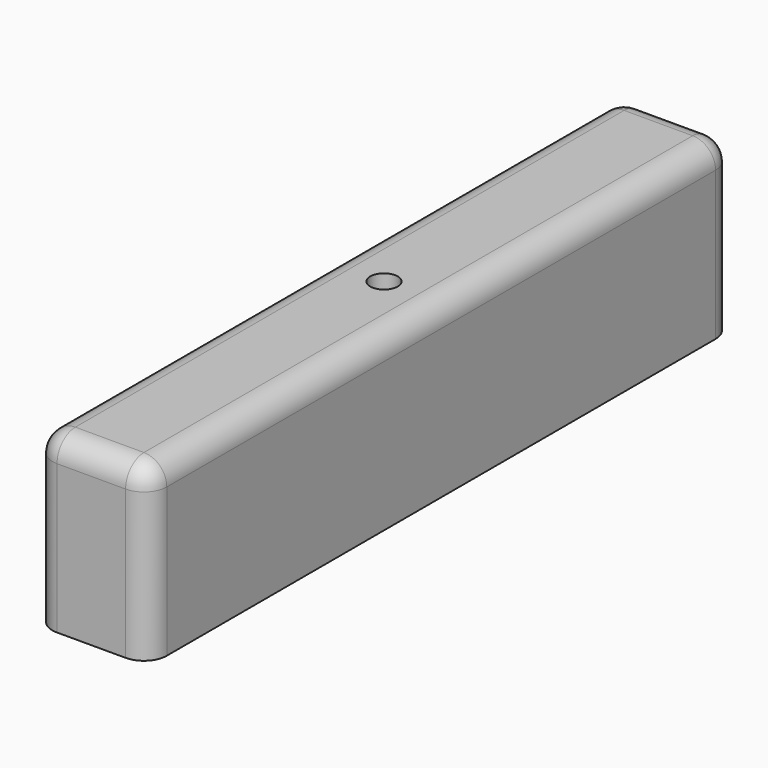
from build123d import *

# Parameters (mm, degrees)
CYLINDER004_R          = 1.2
CYLINDER004_DEPTH      = 1.8
BOX014_W               = 64
BOX014_H               = 10
BOX014_DEPTH           = 15
FILLET005_R            = 2
CUT009_PLACEMENT_ANGLE = 90


with BuildPart() as array006:
    # Cylinder004 → Cylinder004 (new body)
    with BuildSketch(Plane(origin=(0, -50, 11.9), x_dir=(1, 0, 0), z_dir=(0, 0, 1))):
        Circle(CYLINDER004_R)
    extrude(amount=CYLINDER004_DEPTH)


with BuildPart() as obj1:
    # Box014 → Box014 (new body)
    with BuildSketch(Plane(origin=(-32, -55, -1.4), x_dir=(1, 0, 0), z_dir=(0, 0, 1))):
        with Locations((32, 5)):
            Rectangle(BOX014_W, BOX014_H)
    extrude(amount=BOX014_DEPTH)

    # Fillet005
    fillet005_edges = [obj1.edges().sort_by_distance(p)[0] for p in [
        (-32, -55, 6.1),
        (-32, -50, 13.6),
        (-32, -45, 6.1),
        (32, -55, 6.1),
        (32, -50, 13.6),
        (32, -45, 6.1),
        (0, -55, 13.6),
        (0, -45, 13.6),
    ]]
    fillet(fillet005_edges, radius=FILLET005_R)

    # Cut009: cut Array006
    add(array006.part, mode=Mode.SUBTRACT)


with BuildPart() as obj1_1:
    # Cut009 placement: moved
    add(obj1.part.moved(Location((-88, 0, -16))).rotate(Axis((-88, 0, -16), (0, 0, 1)), CUT009_PLACEMENT_ANGLE))


solid = obj1_1.part
